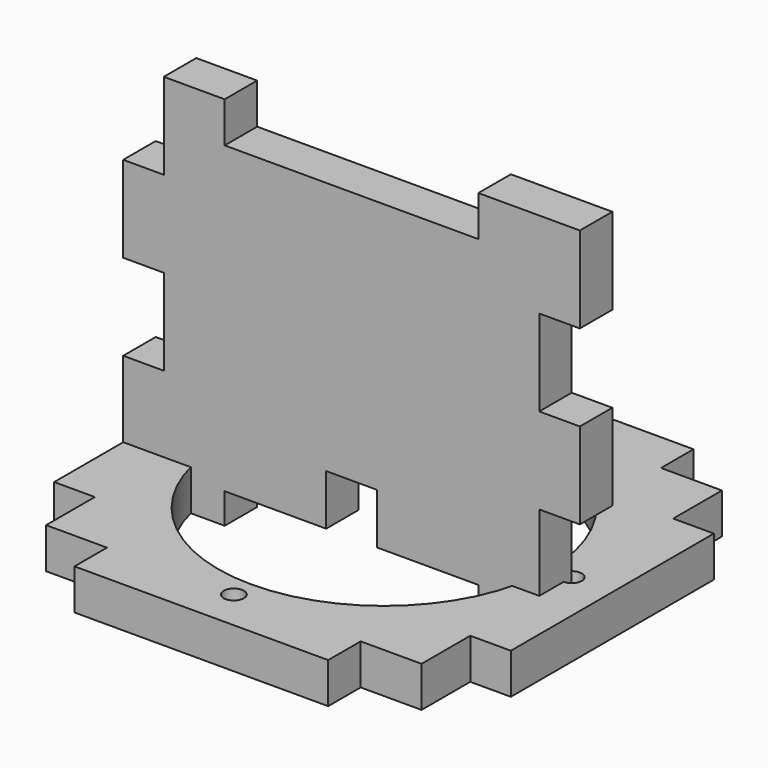
from build123d import *

# Parameters (mm, degrees)
SKETCH_R     = 16.35
SKETCH_R_2   = 1
PAD001_DEPTH = 4
PAD_DEPTH    = 4


with BuildPart() as cover:
    # Sketch → Pad001 (new body)
    with BuildSketch(Plane.XY):
        Polygon((-22.5, 12.5), (-22.5, -12.5), (-18.5, -12.5), (-18.5, -18.5), (-12.5, -18.5), (-12.5, -22.5), (12.5, -22.5), (12.5, -18.5), (18.5, -18.5), (18.5, -12.5), (22.5, -12.5), (22.5, 12.5), (18.5, 12.5), (18.5, 18.5), (12.5, 18.5), (12.5, 22.5), (-12.5, 22.5), (-12.5, 18.5), (-18.5, 18.5), (-18.5, 12.5), align=None)
        Circle(SKETCH_R, mode=Mode.SUBTRACT)
        with Locations((0, 18.5)):
            Circle(SKETCH_R_2, mode=Mode.SUBTRACT)
        with Locations((18.5, 0)):
            Circle(SKETCH_R_2, mode=Mode.SUBTRACT)
        with Locations((-18.5, 0)):
            Circle(SKETCH_R_2, mode=Mode.SUBTRACT)
        with Locations((0, -18.5)):
            Circle(SKETCH_R_2, mode=Mode.SUBTRACT)
    extrude(amount=PAD001_DEPTH)


with BuildPart() as walls:
    # Sketch001 → Pad (new body)
    with BuildSketch(Plane.XZ):
        Polygon((-18.5, 37), (-12.5, 37), (-12.5, 33), (12.5, 33), (12.5, 37), (22.5, 37), (22.5, 28.5), (18.5, 28.5), (18.5, 20), (22.5, 20), (22.5, 11.5), (18.5, 11.5), (18.5, 0), (12.5, 0), (12.5, 3), (2.5, 3), (2.5, 8), (-2.5, 8), (-2.5, 3), (-12.5, 3), (-12.5, 0), (-22.5, 0), (-22.5, 11.5), (-18.5, 11.5), (-18.5, 20), (-22.5, 20), (-22.5, 28.5), (-18.5, 28.5), align=None)
    extrude(amount=PAD_DEPTH)


solid = Compound([cover.part, walls.part])
